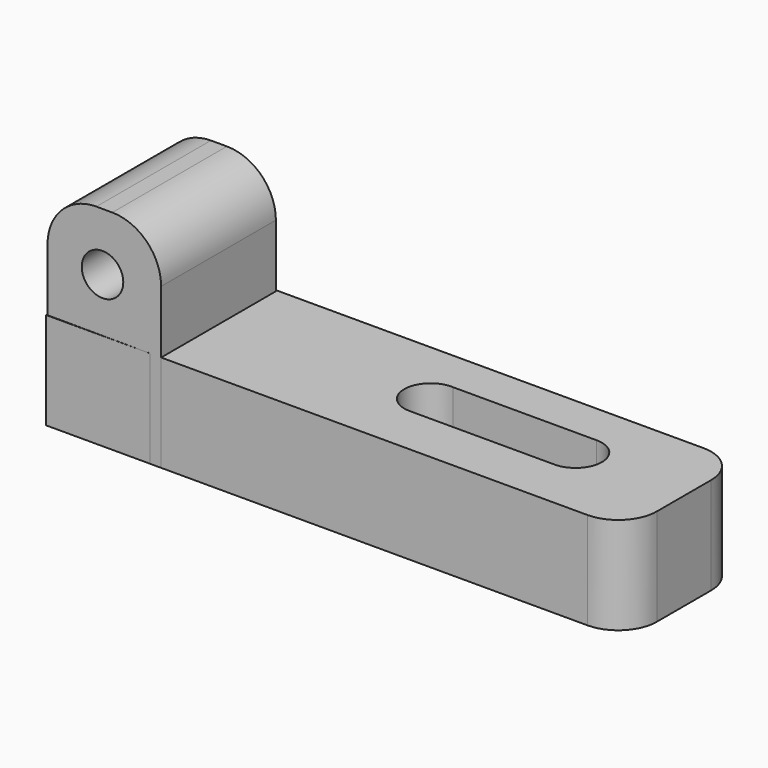
from build123d import *

# Parameters (mm, degrees)
F0_W     = 101.6
F0_H     = 25.4
F1_DEPTH = 17.018
F2_R     = 6.745313
F4_DEPTH = 36.576
F5_R     = 8.584943
F6_R     = 3.647702
F7_DEPTH = 35.7124


with BuildPart() as f1:
    # F0 (on Top) → F1 (new body)
    with BuildSketch(Plane.XY):
        Rectangle(F0_W, F0_H)
        with BuildLine():
            Line((5.992301, 5.37728), (31.1963, 5.37728))
            ThreePointArc((31.1963, 5.37728), (35.806323, 0.663675), (30.991462, -3.84049))
            Line((30.991462, -3.84049), (5.787463, -3.84049))
            ThreePointArc((5.787463, -3.84049), (1.17744, 0.873115), (5.992301, 5.37728))
        make_face(mode=Mode.SUBTRACT)
    extrude(amount=F1_DEPTH)

    # F2
    f2_edges = [f1.edges().sort_by_distance(p)[0] for p in [
        (50.8, -12.7, 8.509),
        (50.8, 12.7, 8.509),
    ]]
    fillet(f2_edges, radius=F2_R)


with BuildPart() as f4:
    # F3 (on Top) → F4 (new body)
    with BuildSketch(Plane.XY):
        Polygon((-50.605889, -12.61778), (-30.641558, -12.709112), (-30.641558, 12.426906), (-50.605889, 12.426906), align=None)
    extrude(amount=F4_DEPTH)

    # F5
    f5_edges = [f4.edges().sort_by_distance(p)[0] for p in [
        (-30.641558, -0.141103, 36.576),
        (-50.605889, -0.095437, 36.576),
    ]]
    fillet(f5_edges, radius=F5_R)

    # F6 (on Front) → F7 (cut, symmetric)
    with BuildSketch(Plane.XZ):
        with Locations((-40.940359, 26.455853)):
            Circle(F6_R)
    extrude(amount=F7_DEPTH, both=True, mode=Mode.SUBTRACT)


solid = Compound([f1.part, f4.part])
